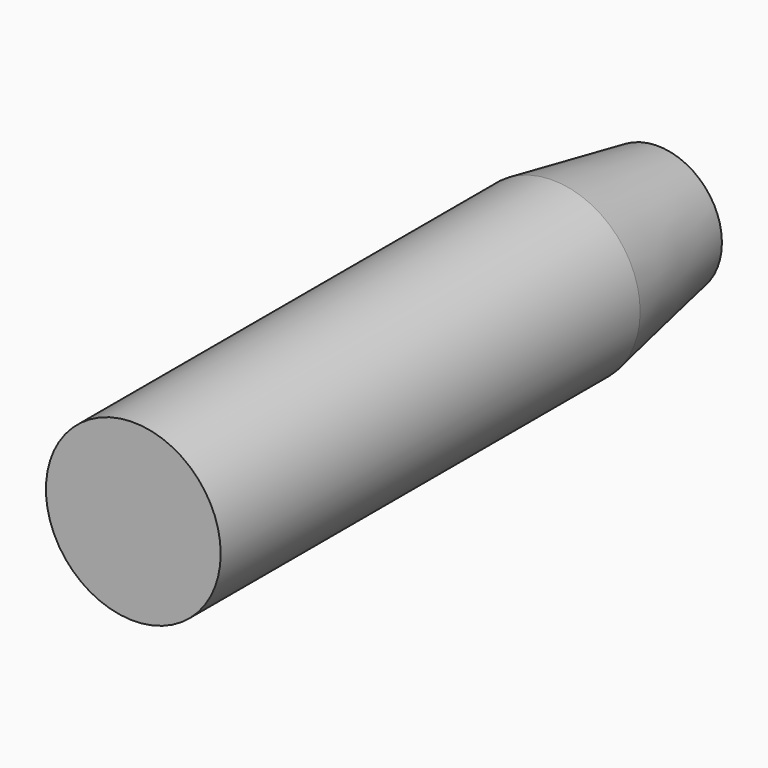
from build123d import *

# Parameters (mm, degrees)
F0_R     = 8
F1_DEPTH = 60
F3_D     = 8.5
F3_DEPTH = 35
F3_TIP   = 2.5536576309
F4_SIZE2 = 2.1159237685
F4_SIZE  = 12


with BuildPart() as f1:
    # F0 (on Front) → F1 (new body)
    with BuildSketch(Plane.XZ):
        Circle(F0_R)
    extrude(amount=F1_DEPTH)

    # F3
    with Locations(Plane(origin=(0, 0, 0), x_dir=(-1, 0, 0), z_dir=(0, 1, 0))):
        with Locations((0, 0)):
            Hole(F3_D / 2, depth=F3_DEPTH)
            with Locations((0, 0, -(F3_DEPTH + F3_TIP / 2))):  # 118° drill point
                Cone(0, F3_D / 2, F3_TIP, mode=Mode.SUBTRACT)

    # F4
    f4_edges = [f1.edges().sort_by_distance(p)[0] for p in [
        (-8, 0, 0),
    ]]
    f4_side = f1.faces().sort_by_distance((-8, -30, 0))[0]
    chamfer(f4_edges, length=F4_SIZE, length2=F4_SIZE2, reference=f4_side)


solid = f1.part
